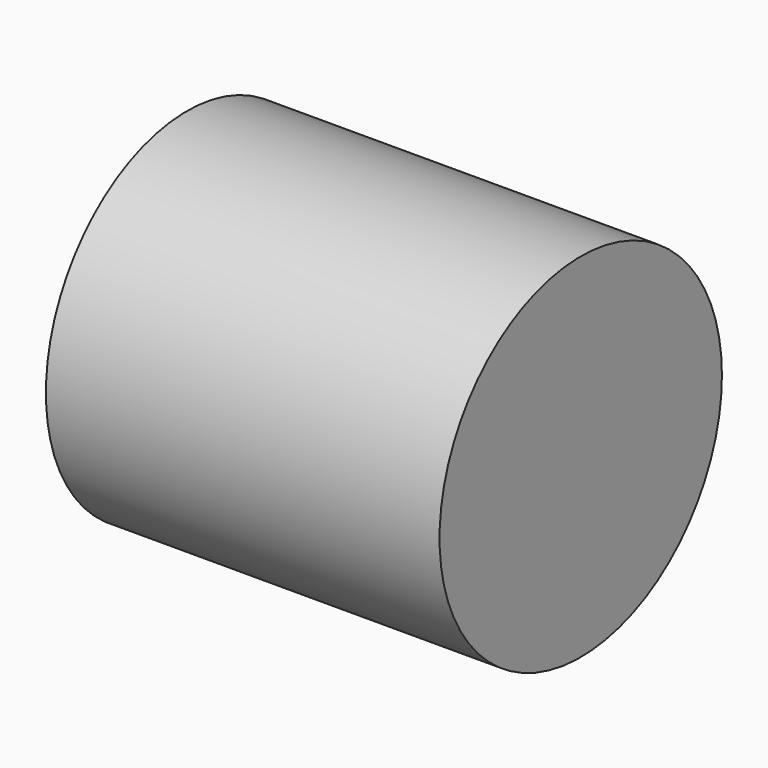
from build123d import *

# Parameters (mm, degrees)
SKETCH_R  = 130
PAD_DEPTH = 290


with BuildPart() as part:
    # Sketch → Pad (new body)
    with BuildSketch(Plane.YZ.offset(-145)):
        Circle(SKETCH_R)
    extrude(amount=PAD_DEPTH)


solid = part.part
